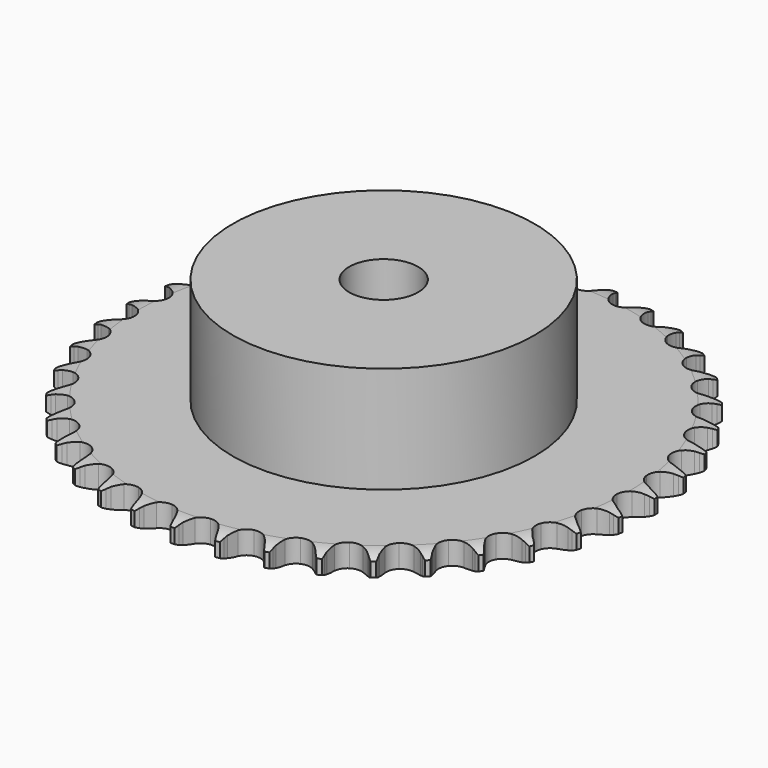
from build123d import *

# Parameters (mm, degrees)
PAD_DEPTH         = 5.3
SKETCH001_R       = 35
PAD001_DEPTH      = 30
SKETCH002_R       = 8
POCKET_DEPTH      = 0.001
POCKET_DEPTH_BACK = 30.001


with BuildPart() as part:
    # Sprocket → Pad (new body)
    with BuildSketch(Plane.XY):
        with BuildLine():
            ThreePointArc((-4.992558, 61.843928), (-4.440066, 61.078118), (-4.037219, 60.224054))
            Line((-4.037219, 60.224054), (-3.72759, 59.372168))
            ThreePointArc((-3.72759, 59.372168), (-3.237296, 58.276891), (-2.594344, 57.263661))
            ThreePointArc((-2.594344, 57.263661), (-1.452389, 56.302176), (0, 55.957095))
            ThreePointArc((0, 55.957095), (1.452389, 56.302176), (2.594344, 57.263661))
            ThreePointArc((2.594344, 57.263661), (3.237296, 58.276891), (3.72759, 59.372168))
            Line((3.72759, 59.372168), (4.037219, 60.224054))
            ThreePointArc((4.037219, 60.224054), (4.440066, 61.078118), (4.992558, 61.843928))
            ThreePointArc((4.992558, 61.843928), (5.415051, 60.99941), (5.675679, 60.091783))
            Line((5.675679, 60.091783), (5.844647, 59.201262))
            ThreePointArc((5.844647, 59.201262), (6.152897, 58.041519), (6.624989, 56.938273))
            ThreePointArc((6.624989, 56.938273), (7.597923, 55.806057), (8.976149, 55.232466))
            ThreePointArc((8.976149, 55.232466), (10.465085, 55.340098), (11.746485, 56.105949))
            Line((11.746485, 56.105949), (13.203284, 58.005367))
            ThreePointArc((13.203284, 58.005367), (13.413623, 58.406995), (13.645556, 58.796552))
            ThreePointArc((13.645556, 58.796552), (14.180188, 59.574936), (14.848369, 60.242203))
            ThreePointArc((14.848369, 60.242203), (15.129921, 59.340848), (15.241581, 58.403168))
            Line((15.241581, 58.403168), (15.265511, 57.497074))
            ThreePointArc((15.265511, 57.497074), (15.383733, 56.302902), (15.672739, 55.138214))
            ThreePointArc((15.672739, 55.138214), (16.451453, 53.864591), (17.719821, 53.077344))
            ThreePointArc((17.719821, 53.077344), (19.206741, 52.944741), (20.594398, 53.495123))
            Line((20.594398, 53.495123), (22.33702, 55.136257))
            ThreePointArc((22.33702, 55.136257), (22.609061, 55.498943), (22.90048, 55.846251))
            ThreePointArc((22.90048, 55.846251), (23.55305, 56.528794), (24.319616, 57.080236))
            ThreePointArc((24.319616, 57.080236), (24.452934, 56.14539), (24.412733, 55.20194))
            Line((24.412733, 55.20194), (24.291005, 54.303742))
            ThreePointArc((24.291005, 54.303742), (24.216139, 53.10607), (24.314573, 51.910105))
            ThreePointArc((24.314573, 51.910105), (24.878899, 50.52806), (26.004559, 49.547547))
            ThreePointArc((26.004559, 49.547547), (27.450952, 49.178142), (28.908927, 49.498802))
            Line((28.908927, 49.498802), (30.892239, 50.839147))
            ThreePointArc((30.892239, 50.839147), (31.218937, 51.153498), (31.562293, 51.449562))
            ThreePointArc((31.562293, 51.449562), (32.3159, 52.018586), (33.160997, 52.439922))
            ThreePointArc((33.160997, 52.439922), (33.142628, 51.495795), (32.951609, 50.571012))
            Line((32.951609, 50.571012), (32.687376, 49.703971))
            ThreePointArc((32.687376, 49.703971), (32.421359, 48.533819), (32.326672, 47.337551))
            ThreePointArc((32.326672, 47.337551), (32.661995, 45.882879), (33.615792, 44.734495))
            ThreePointArc((33.615792, 44.734495), (34.984198, 44.137856), (36.47473, 44.220487))
            Line((36.47473, 44.220487), (38.647366, 45.225329))
            ThreePointArc((38.647366, 45.225329), (39.020258, 45.483204), (39.40666, 45.720356))
            ThreePointArc((39.40666, 45.720356), (40.241786, 46.161124), (41.143526, 46.44144))
            ThreePointArc((41.143526, 46.44144), (40.973947, 45.512487), (40.637055, 44.630321))
            Line((40.637055, 44.630321), (40.237161, 43.816894))
            ThreePointArc((40.237161, 43.816894), (39.786883, 42.704567), (39.501527, 41.538979))
            ThreePointArc((39.501527, 41.538979), (39.599162, 40.049355), (40.356394, 38.762843))
            ThreePointArc((40.356394, 38.762843), (41.611372, 37.954422), (43.095857, 37.796885))
            Line((43.095857, 37.796885), (45.401545, 38.4402))
            ThreePointArc((45.401545, 38.4402), (45.810975, 38.634919), (46.230415, 38.807016))
            ThreePointArc((46.230415, 38.807016), (47.12543, 39.108114), (48.060459, 39.24015))
            ThreePointArc((48.060459, 39.24015), (47.744061, 38.350429), (47.270023, 37.533728))
            Line((47.270023, 37.533728), (46.744824, 36.794982))
            ThreePointArc((46.744824, 36.794982), (46.121947, 35.769289), (45.653313, 34.66457))
            ThreePointArc((45.653313, 34.66457), (45.510732, 33.178574), (46.051787, 31.787253))
            ThreePointArc((46.051787, 31.787253), (47.160833, 30.787989), (48.600824, 30.394364))
            Line((48.600824, 30.394364), (50.979849, 30.659489))
            ThreePointArc((50.979849, 30.659489), (51.415211, 30.78601), (51.856826, 30.888596))
            ThreePointArc((51.856826, 30.888596), (52.788551, 31.042223), (53.732652, 31.022561))
            ThreePointArc((53.732652, 31.022561), (53.277629, 30.195115), (52.678722, 29.465031))
            Line((52.678722, 29.465031), (52.041821, 28.8201))
            ThreePointArc((52.041821, 28.8201), (51.262478, 27.907606), (50.622703, 26.892366))
            ThreePointArc((50.622703, 26.892366), (50.243597, 25.448485), (50.554462, 23.988391))
            ThreePointArc((50.554462, 23.988391), (51.488854, 22.824163), (52.847055, 22.204644))
            Line((52.847055, 22.204644), (55.237801, 22.084714))
            ThreePointArc((55.237801, 22.084714), (55.687821, 22.139759), (56.140173, 22.170176))
            ThreePointArc((56.140173, 22.170176), (57.084476, 22.172355), (58.013196, 22.001503))
            ThreePointArc((58.013196, 22.001503), (57.431335, 21.257763), (56.723069, 20.633206))
            Line((56.723069, 20.633206), (55.990962, 20.098792))
            ThreePointArc((55.990962, 20.098792), (55.075337, 19.32313), (54.280991, 18.423665))
            ThreePointArc((54.280991, 18.423665), (53.67518, 17.059294), (53.747804, 15.568241))
            ThreePointArc((53.747804, 15.568241), (54.48334, 14.269203), (55.724575, 13.439836))
            Line((55.724575, 13.439836), (58.065124, 12.937956))
            ThreePointArc((58.065124, 12.937956), (58.518146, 12.9201), (58.969519, 12.877561))
            ThreePointArc((58.969519, 12.877561), (59.901943, 12.728235), (60.79123, 12.410618))
            ThreePointArc((60.79123, 12.410618), (60.097599, 11.769847), (59.298319, 11.266991))
            Line((59.298319, 11.266991), (58.489967, 10.856936))
            ThreePointArc((58.489967, 10.856936), (57.461774, 10.238195), (56.53343, 9.4778))
            ThreePointArc((56.53343, 9.4778), (55.716604, 8.228277), (55.549105, 6.744883))
            ThreePointArc((55.549105, 6.744883), (56.066736, 5.344678), (57.158858, 4.326943))
            Line((57.158858, 4.326943), (59.38859, 3.456112))
            ThreePointArc((59.38859, 3.456112), (59.832881, 3.365818), (60.271585, 3.251424))
            ThreePointArc((60.271585, 3.251424), (61.167981, 2.954461), (61.994803, 2.498305))
            ThreePointArc((61.994803, 2.498305), (61.207367, 1.977097), (60.337774, 1.608967))
            Line((60.337774, 1.608967), (59.474112, 1.333891))
            ThreePointArc((59.474112, 1.333891), (58.359981, 0.888096), (57.321683, 0.286465))
            ThreePointArc((57.321683, 0.286465), (56.314997, -0.815849), (55.911714, -2.253165))
            ThreePointArc((55.911714, -2.253165), (56.198033, -3.718271), (57.112756, -4.898015))
            Line((57.112756, -4.898015), (59.173922, -6.115243))
            ThreePointArc((59.173922, -6.115243), (59.597976, -6.275638), (60.012649, -6.458923))
            ThreePointArc((60.012649, -6.458923), (60.849801, -6.895833), (61.592743, -7.478713))
            ThreePointArc((61.592743, -7.478713), (60.731897, -7.866858), (59.814512, -8.090728))
            Line((59.814512, -8.090728), (58.917909, -8.223701))
            ThreePointArc((58.917909, -8.223701), (57.746695, -8.485004), (56.625335, -8.91229))
            ThreePointArc((56.625335, -8.91229), (55.454861, -9.838845), (54.826239, -11.192857))
            ThreePointArc((54.826239, -11.192857), (54.873831, -12.684919), (55.587464, -13.996117))
            Line((55.587464, -13.996117), (57.426682, -15.528217))
            ThreePointArc((57.426682, -15.528217), (57.819515, -15.754557), (58.199417, -16.001988))
            ThreePointArc((58.199417, -16.001988), (58.955642, -16.567528), (59.595463, -17.262036))
            ThreePointArc((59.595463, -17.262036), (58.683502, -17.507065), (57.742086, -17.580878))
            Line((57.742086, -17.580878), (56.835763, -17.568304))
            ThreePointArc((56.835763, -17.568304), (55.6378, -17.638346), (54.46242, -17.88022))
            ThreePointArc((54.46242, -17.88022), (53.158473, -18.60702), (52.320793, -19.842659))
            ThreePointArc((52.320793, -19.842659), (52.128425, -21.323034), (52.622486, -22.731727))
            Line((52.622486, -22.731727), (54.19212, -24.539018))
            ThreePointArc((54.19212, -24.539018), (54.543558, -24.825442), (54.878851, -25.130609))
            ThreePointArc((54.878851, -25.130609), (55.534564, -25.810133), (56.054692, -26.598282))
            ThreePointArc((56.054692, -26.598282), (55.115235, -26.693849), (54.17417, -26.615692))
            Line((54.17417, -26.615692), (53.281601, -26.457897))
            ThreePointArc((53.281601, -26.457897), (52.087915, -26.334865), (50.888957, -26.385063))
            ThreePointArc((50.888957, -26.385063), (49.485309, -26.893282), (48.460266, -27.978548))
            ThreePointArc((48.460266, -27.978548), (48.03292, -29.408894), (48.294613, -30.878598))
            Line((48.294613, -30.878598), (49.554011, -32.914272))
            ThreePointArc((49.554011, -32.914272), (49.854953, -33.253362), (50.136951, -33.608361))
            ThreePointArc((50.136951, -33.608361), (50.675169, -34.384269), (51.062134, -35.245646))
            ThreePointArc((51.062134, -35.245646), (50.119513, -35.189276), (49.203171, -34.961174))
            Line((49.203171, -34.961174), (48.347473, -34.662244))
            ThreePointArc((48.347473, -34.662244), (47.188981, -34.349325), (45.997496, -34.206546))
            ThreePointArc((45.997496, -34.206546), (44.530501, -34.483023), (43.344644, -35.389806))
            ThreePointArc((43.344644, -35.389806), (42.693388, -36.733078), (42.715935, -38.225729))
            Line((42.715935, -38.225729), (43.632479, -40.437063))
            ThreePointArc((43.632479, -40.437063), (43.87513, -40.820036), (44.09653, -41.215674))
            ThreePointArc((44.09653, -41.215674), (44.503314, -42.067871), (44.747094, -42.980167))
            ThreePointArc((44.747094, -42.980167), (43.825721, -42.77332), (42.957836, -42.40118))
            Line((42.957836, -42.40118), (42.161171, -41.968857))
            ThreePointArc((42.161171, -41.968857), (41.067877, -41.474155), (39.914725, -41.142097))
            ThreePointArc((39.914725, -41.142097), (38.422377, -41.179672), (37.106418, -41.884487))
            ThreePointArc((37.106418, -41.884487), (36.24812, -43.105896), (36.030937, -44.582834))
            Line((36.030937, -44.582834), (36.580889, -46.912556))
            ThreePointArc((36.580889, -46.912556), (36.758964, -47.329493), (36.914033, -47.755523))
            ThreePointArc((36.914033, -47.755523), (37.178847, -48.661937), (37.273127, -49.601523))
            ThreePointArc((37.273127, -49.601523), (36.396867, -49.249557), (35.599916, -48.743017))
            Line((35.599916, -48.743017), (34.882917, -48.188499))
            ThreePointArc((34.882917, -48.188499), (33.883137, -47.524826), (32.798183, -47.01209))
            ThreePointArc((32.798183, -47.01209), (31.319134, -46.809789), (29.907155, -47.294382))
            ThreePointArc((29.907155, -47.294382), (28.864044, -48.362293), (28.412756, -49.785266))
            Line((28.412756, -49.785266), (28.581873, -52.173037))
            ThreePointArc((28.581873, -52.173037), (28.69076, -52.613141), (28.775481, -53.058529))
            ThreePointArc((28.775481, -53.058529), (28.891467, -53.995684), (28.833806, -54.938227))
            ThreePointArc((28.833806, -54.938227), (28.025353, -54.450256), (27.319977, -53.822436))
            Line((27.319977, -53.822436), (26.701214, -53.160084))
            ThreePointArc((26.701214, -53.160084), (25.820841, -52.34463), (24.832186, -51.664494))
            ThreePointArc((24.832186, -51.664494), (23.404741, -51.227557), (21.933313, -51.479377))
            ThreePointArc((21.933313, -51.479377), (20.732405, -52.366133), (20.0587, -53.698287))
            Line((20.0587, -53.698287), (19.842601, -56.082265))
            ThreePointArc((19.842601, -56.082265), (19.879481, -56.534136), (19.891659, -56.987346))
            ThreePointArc((19.891659, -56.987346), (19.855814, -57.930971), (19.647704, -58.852059))
            ThreePointArc((19.647704, -58.852059), (18.927996, -58.240722), (18.332464, -57.507882))
            Line((18.332464, -57.507882), (17.827963, -56.75485))
            ThreePointArc((17.827963, -56.75485), (17.089798, -55.808734), (16.223048, -54.978815))
            ThreePointArc((16.223048, -54.978815), (14.884178, -54.318558), (13.391409, -54.331084))
            ThreePointArc((13.391409, -54.331084), (12.063808, -55.013717), (11.185134, -56.22055))
            Line((11.185134, -56.22055), (10.589417, -58.538992))
            ThreePointArc((10.589417, -58.538992), (10.553334, -58.990927), (10.492654, -59.440222))
            ThreePointArc((10.492654, -59.440222), (10.305905, -60.365877), (9.952737, -61.241654))
            ThreePointArc((9.952737, -61.241654), (9.340415, -60.522784), (8.870151, -59.703904))
            Line((8.870151, -59.703904), (8.492977, -58.879696))
            ThreePointArc((8.492977, -58.879696), (7.916139, -57.827422), (7.193741, -56.869214))
            ThreePointArc((7.193741, -56.869214), (5.978122, -56.002737), (4.502675, -55.775644))
            ThreePointArc((4.502675, -55.775644), (3.082764, -56.236474), (2.021879, -57.28673))
            Line((2.021879, -57.28673), (1.061972, -59.479589))
            ThreePointArc((1.061972, -59.479589), (0.953861, -59.919884), (0.821895, -60.353627))
            ThreePointArc((0.821895, -60.353627), (0.489078, -61.237338), (0, -62.045122))
            ThreePointArc((0, -62.045122), (-0.489078, -61.237338), (-0.821895, -60.353627))
            Line((-0.821895, -60.353627), (-1.061972, -59.479589))
            ThreePointArc((-1.061972, -59.479589), (-1.462543, -58.348411), (-2.021879, -57.28673))
            ThreePointArc((-2.021879, -57.28673), (-3.082764, -56.236474), (-4.502675, -55.775644))
            ThreePointArc((-4.502675, -55.775644), (-5.978122, -56.002737), (-7.193741, -56.869214))
            Line((-7.193741, -56.869214), (-8.492977, -58.879696))
            ThreePointArc((-8.492977, -58.879696), (-8.670317, -59.296947), (-8.870151, -59.703904))
            ThreePointArc((-8.870151, -59.703904), (-9.340415, -60.522784), (-9.952737, -61.241654))
            ThreePointArc((-9.952737, -61.241654), (-10.305905, -60.365877), (-10.492654, -59.440222))
            Line((-10.492654, -59.440222), (-10.589417, -58.538992))
            ThreePointArc((-10.589417, -58.538992), (-10.803347, -57.358206), (-11.185134, -56.22055))
            ThreePointArc((-11.185134, -56.22055), (-12.063808, -55.013717), (-13.391409, -54.331084))
            ThreePointArc((-13.391409, -54.331084), (-14.884178, -54.318558), (-16.223048, -54.978815))
            Line((-16.223048, -54.978815), (-17.827963, -56.75485))
            ThreePointArc((-17.827963, -56.75485), (-18.069938, -57.138251), (-18.332464, -57.507882))
            ThreePointArc((-18.332464, -57.507882), (-18.927996, -58.240722), (-19.647704, -58.852059))
            ThreePointArc((-19.647704, -58.852059), (-19.855814, -57.930971), (-19.891659, -56.987346))
            Line((-19.891659, -56.987346), (-19.842601, -56.082265))
            ThreePointArc((-19.842601, -56.082265), (-19.86435, -54.882453), (-20.0587, -53.698287))
            ThreePointArc((-20.0587, -53.698287), (-20.732405, -52.366133), (-21.933313, -51.479377))
            ThreePointArc((-21.933313, -51.479377), (-23.404741, -51.227557), (-24.832186, -51.664494))
            Line((-24.832186, -51.664494), (-26.701214, -53.160084))
            ThreePointArc((-26.701214, -53.160084), (-27.001557, -53.499704), (-27.319977, -53.822436))
            ThreePointArc((-27.319977, -53.822436), (-28.025353, -54.450256), (-28.833806, -54.938227))
            ThreePointArc((-28.833806, -54.938227), (-28.891467, -53.995684), (-28.775481, -53.058529))
            Line((-28.775481, -53.058529), (-28.581873, -52.173037))
            ThreePointArc((-28.581873, -52.173037), (-28.410876, -50.985274), (-28.412756, -49.785266))
            ThreePointArc((-28.412756, -49.785266), (-28.864044, -48.362293), (-29.907155, -47.294382))
            ThreePointArc((-29.907155, -47.294382), (-31.319134, -46.809789), (-32.798183, -47.01209))
            Line((-32.798183, -47.01209), (-34.882917, -48.188499))
            ThreePointArc((-34.882917, -48.188499), (-35.23385, -48.475542), (-35.599916, -48.743017))
            ThreePointArc((-35.599916, -48.743017), (-36.396867, -49.249557), (-37.273127, -49.601523))
            ThreePointArc((-37.273127, -49.601523), (-37.178847, -48.661937), (-36.914033, -47.755523))
            Line((-36.914033, -47.755523), (-36.580889, -46.912556))
            ThreePointArc((-36.580889, -46.912556), (-36.221576, -45.767603), (-36.030937, -44.582834))
            ThreePointArc((-36.030937, -44.582834), (-36.24812, -43.105896), (-37.106418, -41.884487))
            ThreePointArc((-37.106418, -41.884487), (-38.422377, -41.179672), (-39.914725, -41.142097))
            Line((-39.914725, -41.142097), (-42.161171, -41.968857))
            ThreePointArc((-42.161171, -41.968857), (-42.553604, -42.19589), (-42.957836, -42.40118))
            ThreePointArc((-42.957836, -42.40118), (-43.825721, -42.77332), (-44.747094, -42.980167))
            ThreePointArc((-44.747094, -42.980167), (-44.503314, -42.067871), (-44.09653, -41.215674))
            Line((-44.09653, -41.215674), (-43.632479, -40.437063))
            ThreePointArc((-43.632479, -40.437063), (-43.094156, -39.364575), (-42.715935, -38.225729))
            ThreePointArc((-42.715935, -38.225729), (-42.693388, -36.733078), (-43.344644, -35.389806))
            ThreePointArc((-43.344644, -35.389806), (-44.530501, -34.483023), (-45.997496, -34.206546))
            Line((-45.997496, -34.206546), (-48.347473, -34.662244))
            ThreePointArc((-48.347473, -34.662244), (-48.771243, -34.823386), (-49.203171, -34.961174))
            ThreePointArc((-49.203171, -34.961174), (-50.119513, -35.189276), (-51.062134, -35.245646))
            ThreePointArc((-51.062134, -35.245646), (-50.675169, -34.384269), (-50.136951, -33.608361))
            Line((-50.136951, -33.608361), (-49.554011, -32.914272))
            ThreePointArc((-49.554011, -32.914272), (-48.85062, -31.942025), (-48.294613, -30.878598))
            ThreePointArc((-48.294613, -30.878598), (-48.03292, -29.408894), (-48.460266, -27.978548))
            ThreePointArc((-48.460266, -27.978548), (-49.485309, -26.893282), (-50.888957, -26.385063))
            Line((-50.888957, -26.385063), (-53.281601, -26.457897))
            ThreePointArc((-53.281601, -26.457897), (-53.725732, -26.548975), (-54.17417, -26.615692))
            ThreePointArc((-54.17417, -26.615692), (-55.115235, -26.693849), (-56.054692, -26.598282))
            ThreePointArc((-56.054692, -26.598282), (-55.534564, -25.810133), (-54.878851, -25.130609))
            Line((-54.878851, -25.130609), (-54.19212, -24.539018))
            ThreePointArc((-54.19212, -24.539018), (-53.341878, -23.692194), (-52.622486, -22.731727))
            ThreePointArc((-52.622486, -22.731727), (-52.128425, -21.323034), (-52.320793, -19.842659))
            ThreePointArc((-52.320793, -19.842659), (-53.158473, -18.60702), (-54.46242, -17.88022))
            Line((-54.46242, -17.88022), (-56.835763, -17.568304))
            ThreePointArc((-56.835763, -17.568304), (-57.288753, -17.586959), (-57.742086, -17.580878))
            ThreePointArc((-57.742086, -17.580878), (-58.683502, -17.507065), (-59.595463, -17.262036))
            ThreePointArc((-59.595463, -17.262036), (-58.955642, -16.567528), (-58.199417, -16.001988))
            Line((-58.199417, -16.001988), (-57.426682, -15.528217))
            ThreePointArc((-57.426682, -15.528217), (-56.45161, -14.828747), (-55.587464, -13.996117))
            ThreePointArc((-55.587464, -13.996117), (-54.873831, -12.684919), (-54.826239, -11.192857))
            ThreePointArc((-54.826239, -11.192857), (-55.454861, -9.838845), (-56.625335, -8.91229))
            Line((-56.625335, -8.91229), (-58.917909, -8.223701))
            ThreePointArc((-58.917909, -8.223701), (-59.368025, -8.16945), (-59.814512, -8.090728))
            ThreePointArc((-59.814512, -8.090728), (-60.731897, -7.866858), (-61.592743, -7.478713))
            ThreePointArc((-61.592743, -7.478713), (-60.849801, -6.895833), (-60.012649, -6.458923))
            Line((-60.012649, -6.458923), (-59.173922, -6.115243))
            ThreePointArc((-59.173922, -6.115243), (-58.099275, -5.581244), (-57.112756, -4.898015))
            ThreePointArc((-57.112756, -4.898015), (-56.198033, -3.718271), (-55.911714, -2.253165))
            ThreePointArc((-55.911714, -2.253165), (-56.314997, -0.815849), (-57.321683, 0.286465))
            Line((-57.321683, 0.286465), (-59.474112, 1.333891))
            ThreePointArc((-59.474112, 1.333891), (-59.909697, 1.459643), (-60.337774, 1.608967))
            ThreePointArc((-60.337774, 1.608967), (-61.207367, 1.977097), (-61.994803, 2.498305))
            ThreePointArc((-61.994803, 2.498305), (-61.167981, 2.954461), (-60.271585, 3.251424))
            Line((-60.271585, 3.251424), (-59.38859, 3.456112))
            ThreePointArc((-59.38859, 3.456112), (-58.242199, 3.810811), (-57.158858, 4.326943))
            ThreePointArc((-57.158858, 4.326943), (-56.066736, 5.344678), (-55.549105, 6.744883))
            ThreePointArc((-55.549105, 6.744883), (-55.716604, 8.228277), (-56.53343, 9.4778))
            Line((-56.53343, 9.4778), (-58.489967, 10.856936))
            ThreePointArc((-58.489967, 10.856936), (-58.899739, 11.050932), (-59.298319, 11.266991))
            ThreePointArc((-59.298319, 11.266991), (-60.097599, 11.769847), (-60.79123, 12.410618))
            ThreePointArc((-60.79123, 12.410618), (-59.901943, 12.728235), (-58.969519, 12.877561))
            Line((-58.969519, 12.877561), (-58.065124, 12.937956))
            ThreePointArc((-58.065124, 12.937956), (-56.876681, 13.104168), (-55.724575, 13.439836))
            ThreePointArc((-55.724575, 13.439836), (-54.48334, 14.269203), (-53.747804, 15.568241))
            ThreePointArc((-53.747804, 15.568241), (-53.67518, 17.059294), (-54.280991, 18.423665))
            Line((-54.280991, 18.423665), (-55.990962, 20.098792))
            ThreePointArc((-55.990962, 20.098792), (-56.364309, 20.356008), (-56.723069, 20.633206))
            ThreePointArc((-56.723069, 20.633206), (-57.431335, 21.257763), (-58.013196, 22.001503))
            ThreePointArc((-58.013196, 22.001503), (-57.084476, 22.172355), (-56.140173, 22.170176))
            Line((-56.140173, 22.170176), (-55.237801, 22.084714))
            ThreePointArc((-55.237801, 22.084714), (-54.038087, 22.058133), (-52.847055, 22.204644))
            ThreePointArc((-52.847055, 22.204644), (-51.488854, 22.824163), (-50.554462, 23.988391))
            ThreePointArc((-50.554462, 23.988391), (-50.243597, 25.448485), (-50.622703, 26.892366))
            Line((-50.622703, 26.892366), (-52.041821, 28.8201))
            ThreePointArc((-52.041821, 28.8201), (-52.369072, 29.133874), (-52.678722, 29.465031))
            ThreePointArc((-52.678722, 29.465031), (-53.277629, 30.195115), (-53.732652, 31.022561))
            ThreePointArc((-53.732652, 31.022561), (-52.788551, 31.042223), (-51.856826, 30.888596))
            Line((-51.856826, 30.888596), (-50.979849, 30.659489))
            ThreePointArc((-50.979849, 30.659489), (-49.799934, 30.440805), (-48.600824, 30.394364))
            ThreePointArc((-48.600824, 30.394364), (-47.160833, 30.787989), (-46.051787, 31.787253))
            ThreePointArc((-46.051787, 31.787253), (-45.510732, 33.178574), (-45.653313, 34.66457))
            Line((-45.653313, 34.66457), (-46.744824, 36.794982))
            ThreePointArc((-46.744824, 36.794982), (-47.017504, 37.157188), (-47.270023, 37.533728))
            ThreePointArc((-47.270023, 37.533728), (-47.744061, 38.350429), (-48.060459, 39.24015))
            ThreePointArc((-48.060459, 39.24015), (-47.12543, 39.108114), (-46.230415, 38.807016))
            Line((-46.230415, 38.807016), (-45.401545, 38.4402))
            ThreePointArc((-45.401545, 38.4402), (-44.27199, 38.035076), (-43.095857, 37.796885))
            ThreePointArc((-43.095857, 37.796885), (-41.611372, 37.954422), (-40.356394, 38.762843))
            ThreePointArc((-40.356394, 38.762843), (-39.599162, 40.049355), (-39.501527, 41.538979))
            Line((-39.501527, 41.538979), (-40.237161, 43.816894))
            ThreePointArc((-40.237161, 43.816894), (-40.448208, 44.21815), (-40.637055, 44.630321))
            ThreePointArc((-40.637055, 44.630321), (-40.973947, 45.512487), (-41.143526, 46.44144))
            ThreePointArc((-41.143526, 46.44144), (-40.241786, 46.161124), (-39.40666, 45.720356))
            Line((-39.40666, 45.720356), (-38.647366, 45.225329))
            ThreePointArc((-38.647366, 45.225329), (-37.597424, 44.644258), (-36.47473, 44.220487))
            ThreePointArc((-36.47473, 44.220487), (-34.984198, 44.137856), (-33.615792, 44.734495))
            ThreePointArc((-33.615792, 44.734495), (-32.661995, 45.882879), (-32.326672, 47.337551))
            Line((-32.326672, 47.337551), (-32.687376, 49.703971))
            ThreePointArc((-32.687376, 49.703971), (-32.831324, 50.133886), (-32.951609, 50.571012))
            ThreePointArc((-32.951609, 50.571012), (-33.142628, 51.495795), (-33.160997, 52.439922))
            ThreePointArc((-33.160997, 52.439922), (-32.3159, 52.018586), (-31.562293, 51.449562))
            Line((-31.562293, 51.449562), (-30.892239, 50.839147))
            ThreePointArc((-30.892239, 50.839147), (-29.949104, 50.097178), (-28.908927, 49.498802))
            ThreePointArc((-28.908927, 49.498802), (-27.450952, 49.178142), (-26.004559, 49.547547))
            ThreePointArc((-26.004559, 49.547547), (-24.878899, 50.52806), (-24.314573, 51.910105))
            Line((-24.314573, 51.910105), (-24.291005, 54.303742))
            ThreePointArc((-24.291005, 54.303742), (-24.364126, 54.75118), (-24.412733, 55.20194))
            ThreePointArc((-24.412733, 55.20194), (-24.452934, 56.14539), (-24.319616, 57.080236))
            ThreePointArc((-24.319616, 57.080236), (-23.55305, 56.528794), (-22.90048, 55.846251))
            Line((-22.90048, 55.846251), (-22.33702, 55.136257))
            ThreePointArc((-22.33702, 55.136257), (-21.525119, 54.252607), (-20.594398, 53.495123))
            ThreePointArc((-20.594398, 53.495123), (-19.206741, 52.944741), (-17.719821, 53.077344))
            ThreePointArc((-17.719821, 53.077344), (-16.451453, 53.864591), (-15.672739, 55.138214))
            Line((-15.672739, 55.138214), (-15.265511, 57.497074))
            ThreePointArc((-15.265511, 57.497074), (-15.26591, 57.950447), (-15.241581, 58.403168))
            ThreePointArc((-15.241581, 58.403168), (-15.129921, 59.340848), (-14.848369, 60.242203))
            ThreePointArc((-14.848369, 60.242203), (-14.180188, 59.574936), (-13.645556, 58.796552))
            Line((-13.645556, 58.796552), (-13.203284, 58.005367))
            ThreePointArc((-13.203284, 58.005367), (-12.543644, 57.002921), (-11.746485, 56.105949))
            ThreePointArc((-11.746485, 56.105949), (-10.465085, 55.340098), (-8.976149, 55.232466))
            ThreePointArc((-8.976149, 55.232466), (-7.597923, 55.806057), (-6.624989, 56.938273))
            Line((-6.624989, 56.938273), (-5.844647, 59.201262))
            ThreePointArc((-5.844647, 59.201262), (-5.772315, 59.648828), (-5.675679, 60.091783))
            ThreePointArc((-5.675679, 60.091783), (-5.415051, 60.99941), (-4.992558, 61.843928))
        make_face()
    extrude(amount=PAD_DEPTH)

    # Sketch → Groove (revolve, cut)
    with BuildSketch(Plane.XZ):
        with BuildLine():
            Line((56.891101, 0), (61.25, 0))
            Line((65.608899, 0), (61.25, 0))
            Line((65.608899, 5.3), (65.608899, 0))
            Line((61.25, 5.3), (65.608899, 5.3))
            Line((56.891101, 5.3), (61.25, 5.3))
            ThreePointArc((61.25, 4.3), (59.127169, 5.046794), (56.891101, 5.3))
            Line((61.25, 1), (61.25, 4.3))
            ThreePointArc((56.891101, 0), (59.127169, 0.253206), (61.25, 1))
        make_face()
    revolve(axis=Axis((0, 0, 0), (0, 0, 1)), mode=Mode.SUBTRACT)

    # Sketch001 → Pad001 (join)
    with BuildSketch(Plane.XY):
        Circle(SKETCH001_R)
    extrude(amount=PAD001_DEPTH)

    # Sketch002 → Pocket (cut, two sides)
    with BuildSketch(Plane.XY) as pocket_sk:
        Circle(SKETCH002_R)
    extrude(amount=-POCKET_DEPTH, mode=Mode.SUBTRACT)
    extrude(pocket_sk.sketch, amount=POCKET_DEPTH_BACK, mode=Mode.SUBTRACT)


solid = part.part
